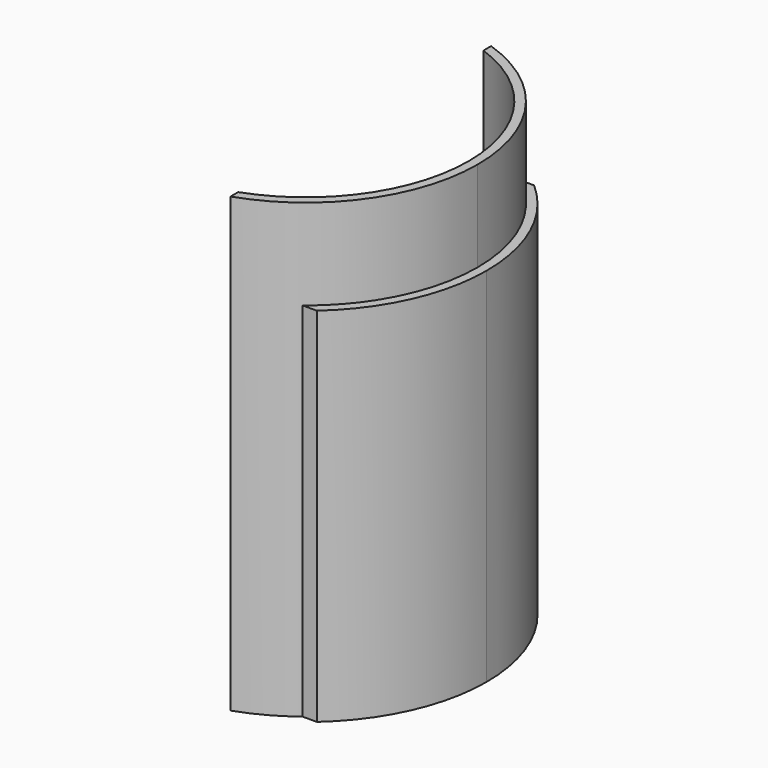
from build123d import *

# Parameters (mm, degrees)
F2_DEPTH = 40
F3_DEPTH = 50


with BuildPart() as f2:
    # F1 (on Top) → F2 (new body)
    with BuildSketch(Plane.XY):
        with BuildLine():
            ThreePointArc((11.661904, 15), (17.067164, 8.349366), (19, 0))
            ThreePointArc((19, 0), (17.067164, -8.349366), (11.661904, -15))
            Line((11.661904, -15), (13.228757, -15))
            ThreePointArc((13.228757, -15), (18.228757, -8.228757), (20, 0))
            ThreePointArc((20, 0), (18.228757, 8.228757), (13.228757, 15))
            Line((13.228757, 15), (11.661904, 15))
        make_face()
    extrude(amount=F2_DEPTH)


with BuildPart() as f3:
    # F0 (on Top) → F3 (new body)
    with BuildSketch(Plane.XY):
        with BuildLine():
            ThreePointArc((19, 0), (15.436523, 11.077624), (6.082763, 18))
            Line((6.082763, 18), (6.082763, 16.941074))
            ThreePointArc((6.082763, 16.941074), (14.722257, 10.356406), (18, 0))
            ThreePointArc((18, 0), (14.722257, -10.356406), (6.082763, -16.941074))
            Line((6.082763, -16.941074), (6.082763, -18))
            ThreePointArc((6.082763, -18), (15.436523, -11.077624), (19, 0))
        make_face()
    extrude(amount=F3_DEPTH)


solid = Compound([f2.part, f3.part])
